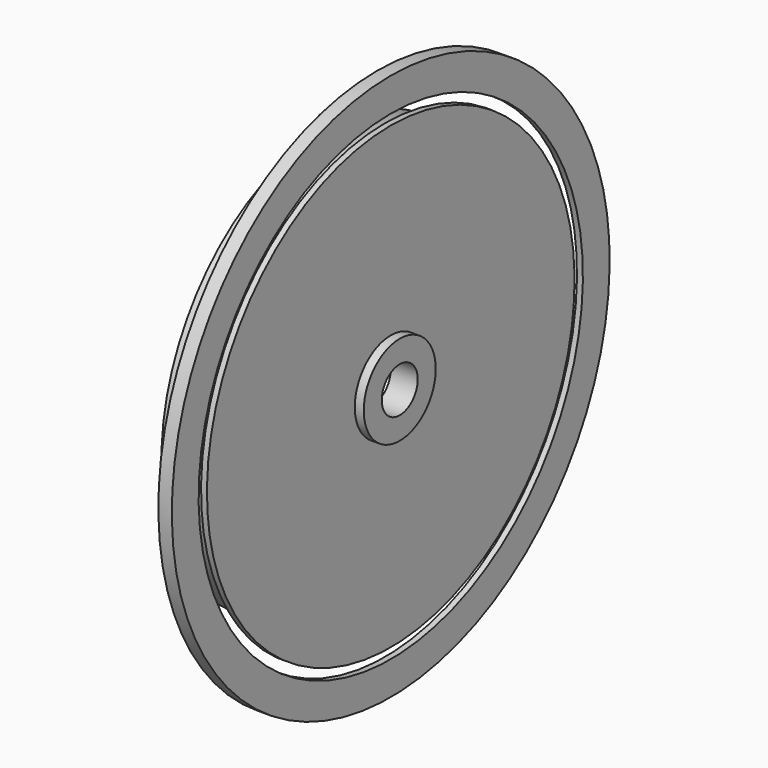
from build123d import *

# Parameters (mm, degrees)
F0_W   = 1
F0_H   = 1
F0_W_2 = 2
F0_H_2 = 5
F0_W_3 = 11
F0_H_3 = 4.242416


with BuildPart() as f1:
    # F0 (on Front) → F1 (revolve)
    with BuildSketch(Plane.XZ):
        Polygon((1.687, 53.408861), (3, 53.408861), (3, 60.845297), (0, 60.845297), (0, 58.043432), (1.687, 58.043432), align=None)
        with Locations((-0.5, 5.5)):
            Rectangle(F0_W, F0_H)
        Polygon((0, 48.77429), (0, 46.242416), (0, 42), (0, 6), (0, 5), (3, 5), (3, 10), (3, 51.091576), (1.687, 51.091576), (1.687, 48.77429), align=None)
        with Locations((4, 7.5)):
            Rectangle(F0_W_2, F0_H_2)
        with Locations((-5.5, 44.121208)):
            Rectangle(F0_W_3, F0_H_3)
    revolve(axis=Axis((2.94186, 0, 0), (1, 0, 0)))


solid = f1.part
